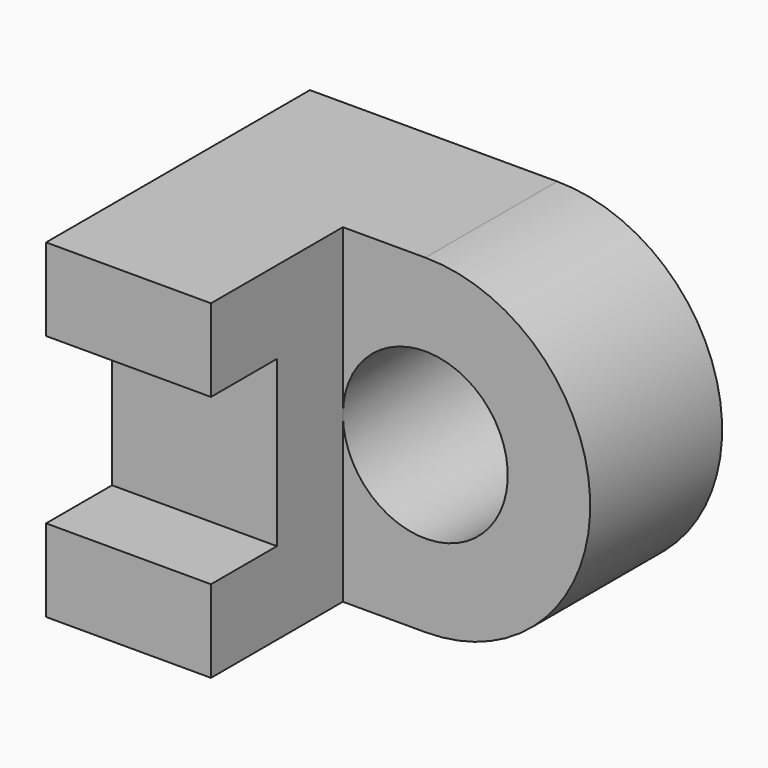
from build123d import *

# Parameters (mm, degrees)
F1_DEPTH = 12.7
F2_W     = 6.35
F2_H     = 25.4
F3_DEPTH = 12.7
F5_DEPTH = 12.7
F6_R     = 6.35
F7_DEPTH = 12.7


with BuildPart() as f1:
    # F0 (on Right) → F1 (new body)
    with BuildSketch(Plane.YZ):
        Polygon((-25.4, 0), (0, 0), (0, 25.4), (-25.4, 25.4), (-25.4, 19.05), (-19.05, 19.05), (-19.05, 6.35), (-25.4, 6.35), align=None)
    extrude(amount=F1_DEPTH)

    # F2 (on face) → F3 (join)
    with BuildSketch(Plane(origin=(0, 0, 0), x_dir=(-1, 0, 0), z_dir=(0, 1, 0))):
        with Locations((-15.875, 12.7)):
            Rectangle(F2_W, F2_H)
    extrude(amount=-F3_DEPTH)

    # F4 (on face) → F5 (join)
    with BuildSketch(Plane(origin=(0, 0, 0), x_dir=(-1, 0, 0), z_dir=(0, 1, 0))):
        with BuildLine():
            Line((-19.05, 0), (-19.05, 25.4))
            ThreePointArc((-19.05, 25.4), (-31.75, 12.7), (-19.05, 0))
        make_face()
    extrude(amount=-F5_DEPTH)

    # F6 (on face) → F7 (cut)
    with BuildSketch(Plane(origin=(0, 0, 0), x_dir=(-1, 0, 0), z_dir=(0, 1, 0))):
        with Locations((-19.05, 12.7)):
            Circle(F6_R)
    extrude(amount=-F7_DEPTH, mode=Mode.SUBTRACT)


solid = f1.part
